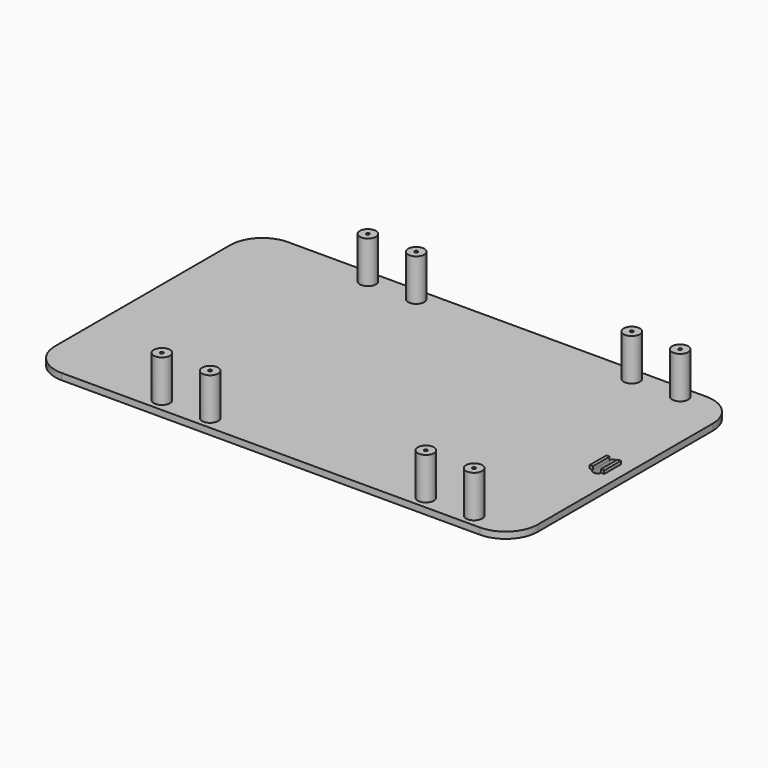
from build123d import *

# Parameters (mm, degrees)
F0_W      = 150
F0_H      = 88
F1_DEPTH  = 2
F2_R      = 2.5
F3_DEPTH  = 15
F4_R      = 0.5
F5_DEPTH  = 10
F13_R     = 10
F14_W     = 2.5
F14_H     = 8.5
F15_DEPTH = 4
F16_R     = 1
F17_W     = 1
F17_H     = 6.5
F18_DEPTH = 1
F21_W     = 7
F21_H     = 19.1
F22_DEPTH = 0.1


with BuildPart() as f1:
    # F0 (on Top) → F1 (new body)
    with BuildSketch(Plane.XY):
        with Locations((-20.3519258499, -9.4975037315)):
            Rectangle(F0_W, F0_H)
    extrude(amount=F1_DEPTH)

    # F13
    f13_edges = [f1.edges().sort_by_distance(p)[0] for p in [
        (-95.351926, -53.497504, 1),
        (54.648074, -53.497504, 1),
        (54.648074, 34.502496, 1),
        (-95.351926, 34.502496, 1),
    ]]
    fillet(f13_edges, radius=F13_R)

    # F14 (on Top) → F15 (cut)
    with BuildSketch(Plane.XY):
        with Locations((48.3980741501, -9.4975037315)):
            Rectangle(F14_W, F14_H)
    extrude(amount=F15_DEPTH, mode=Mode.SUBTRACT)

    # F16
    f16_edges = [f1.edges().sort_by_distance(p)[0] for p in [
        (49.648074, -5.247504, 1),
        (47.148074, -5.247504, 1),
        (47.148074, -13.747504, 1),
        (49.648074, -13.747504, 1),
    ]]
    fillet(f16_edges, radius=F16_R)

    # F21 (on offset) → F22 (cut)
    with BuildSketch(Plane.XY.offset(0.5)):
        with Locations((48.4480741501, 9.6024962685)):
            Rectangle(F21_W, F21_H)
    extrude(amount=-F22_DEPTH, mode=Mode.SUBTRACT)


with BuildPart() as f3:
    # F2 (on Top) → F3 (new body)
    with BuildSketch(Plane.XY):
        with Locations((39.6480741501, -49.4975037315)):
            Circle(F2_R)
    extrude(amount=F3_DEPTH)

    # F4 (on face) → F5 (cut)
    with BuildSketch(Plane.XY.offset(15)):
        with Locations((39.6480741501, -49.4975037315)):
            Circle(F4_R)
    extrude(amount=-F5_DEPTH, mode=Mode.SUBTRACT)


with BuildPart() as f6_1:
    # F6: copy of F3
    add(f3.part.moved(Location((-15, 0, 0))))


with BuildPart() as f7_1:
    # F7: copy of F6_1
    add(f6_1.part.moved(Location((-67, 0, 0))))


with BuildPart() as f8_1:
    # F8: copy of F7_1
    add(f7_1.part.moved(Location((-15, 0, 0))))


with BuildPart() as f9_1:
    # F9: copy of F8_1
    add(f8_1.part.moved(Location((0, 80, 0))))


with BuildPart() as f10_1:
    # F10: copy of F9_1
    add(f9_1.part.moved(Location((15, 0, 0))))


with BuildPart() as f11_1:
    # F11: copy of F10_1
    add(f10_1.part.moved(Location((67, 0, 0))))


with BuildPart() as f12_1:
    # F12: copy of F11_1
    add(f11_1.part.moved(Location((15, 0, 0))))


with BuildPart() as f18:
    # F17 (on face) → F18 (new body)
    with BuildSketch(Plane.XY.offset(2)):
        with Locations((46.6480741501, -9.4975037315)):
            Rectangle(F17_W, F17_H)
    extrude(amount=F18_DEPTH)


with BuildPart() as f19_1:
    # F19: copy of F18
    add(f18.part.moved(Location((3.5, 0, 0))))


solid = Compound([f1.part, f3.part, f6_1.part, f7_1.part, f8_1.part, f9_1.part, f10_1.part, f11_1.part, f12_1.part, f18.part, f19_1.part])
